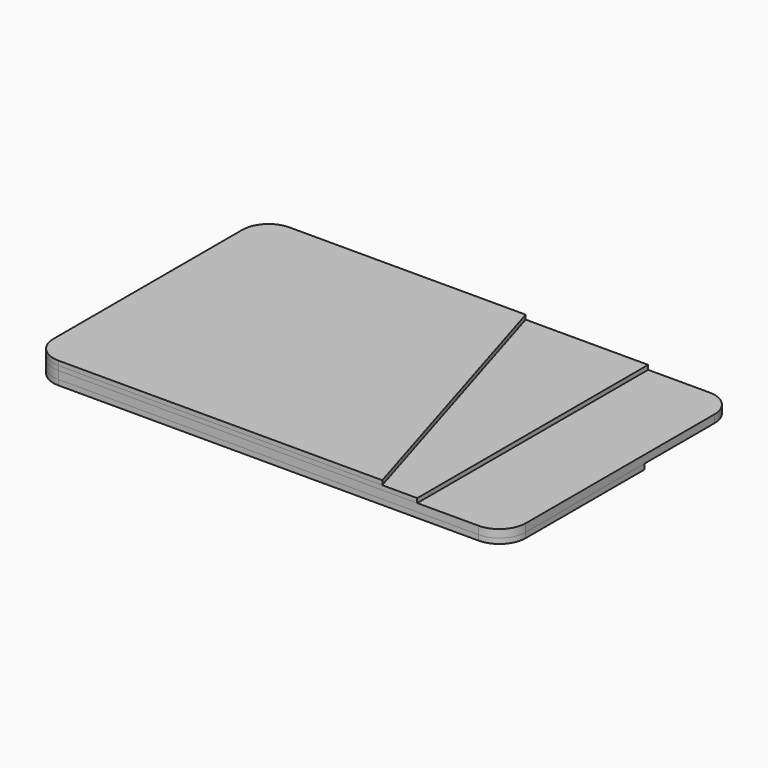
from build123d import *

# Parameters (mm, degrees)
F0_W      = 108
F0_H      = 66
F1_DEPTH  = 1.8
F3_DEPTH  = 1.2
F4_W      = 88
F4_H      = 66
F5_DEPTH  = 1
F7_DEPTH  = 1
F8_R      = 6
F8_2_R    = 6
F8_3_R    = 6
F8_4_R    = 6
F9_R      = 1.3
F10_DEPTH = 25


with BuildPart() as f1:
    # F0 (on Top) → F1 (new body)
    with BuildSketch(Plane.XY):
        Rectangle(F0_W, F0_H)
    extrude(amount=F1_DEPTH)

    # F8
    f8_edges = [f1.edges().sort_by_distance(p)[0] for p in [
        (-54, 33, 0.9),
        (-54, -33, 0.9),
        (54, -33, 0.9),
        (54, 33, 0.9),
    ]]
    fillet(f8_edges, radius=F8_R)

    # F9 (on face) → F10 (cut)
    with BuildSketch(Plane.XY.offset(1.8)):
        with Locations((0, 30.2)):
            Circle(F9_R)
    extrude(amount=-F10_DEPTH, mode=Mode.SUBTRACT)


with BuildPart() as f3:
    # F2 (on face) → F3 (new body)
    with BuildSketch(Plane(origin=(0, 0, 0), x_dir=(1, 0, 0), z_dir=(0, 0, -1))):
        Polygon((-54, 33), (-54, -25), (54, -7), (54, 33), align=None)
    extrude(amount=F3_DEPTH)

    # F8#4
    f8_4_edges = [f3.edges().sort_by_distance(p)[0] for p in [
        (-54, -33, -0.6),
        (54, -33, -0.6),
    ]]
    fillet(f8_4_edges, radius=F8_4_R)


with BuildPart() as f5:
    # F4 (on face) → F5 (new body)
    with BuildSketch(Plane.XY.offset(1.8)):
        with Locations((-10, 0)):
            Rectangle(F4_W, F4_H)
    extrude(amount=F5_DEPTH)

    # F8#2
    f8_2_edges = [f5.edges().sort_by_distance(p)[0] for p in [
        (-54, 33, 2.3),
        (-54, -33, 2.3),
    ]]
    fillet(f8_2_edges, radius=F8_2_R)


with BuildPart() as f7:
    # F6 (on face) → F7 (new body)
    with BuildSketch(Plane.XY.offset(2.8)):
        Polygon((6, 33), (-54, 33), (-54, -33), (26, -33), align=None)
    extrude(amount=F7_DEPTH)

    # F8#3
    f8_3_edges = [f7.edges().sort_by_distance(p)[0] for p in [
        (-54, 33, 3.3),
        (-54, -33, 3.3),
    ]]
    fillet(f8_3_edges, radius=F8_3_R)


solid = Compound([f1.part, f3.part, f5.part, f7.part])
